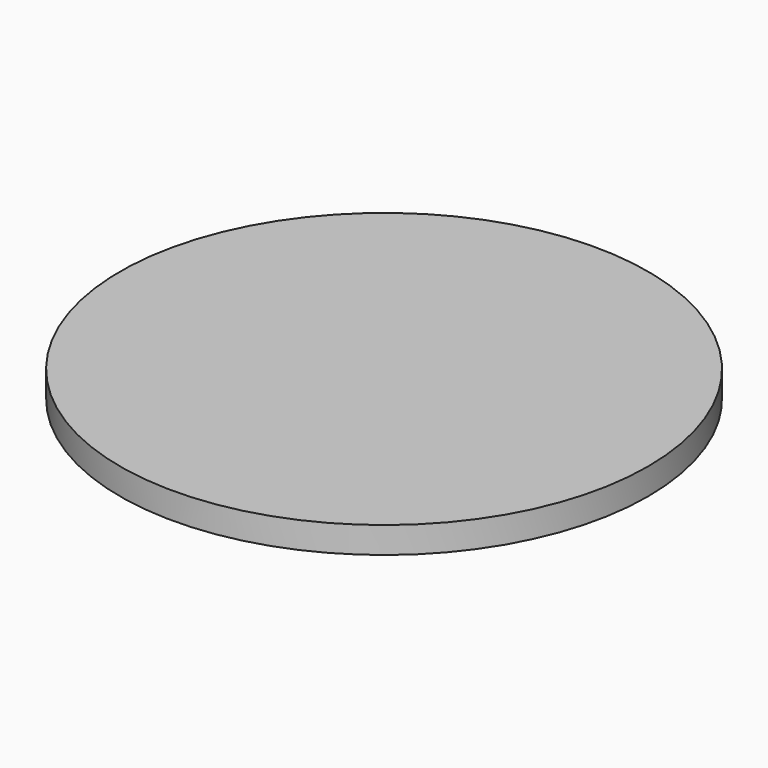
from build123d import *

# Parameters (mm, degrees)
CYLINDER_R     = 20
CYLINDER_DEPTH = 2


with BuildPart() as part:
    # Cylinder → Cylinder (join)
    with BuildSketch(Plane.XY):
        Circle(CYLINDER_R)
    extrude(amount=CYLINDER_DEPTH)


solid = part.part
